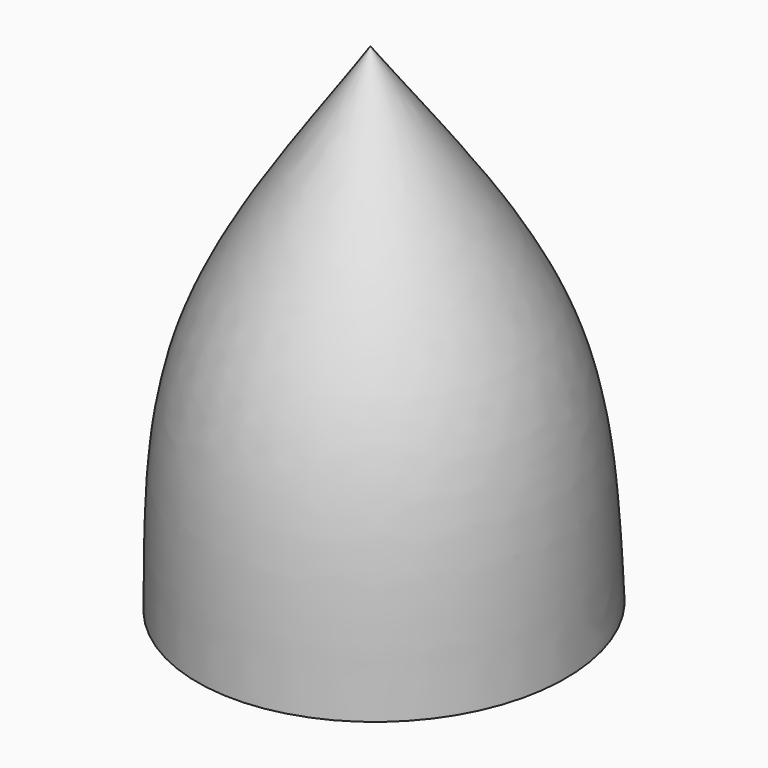
from build123d import *


with BuildPart() as f1:
    # F0 (on Right) → F1 (revolve)
    with BuildSketch(Plane.YZ):
        with BuildLine():
            add(Edge.make_bspline(
                [(28.6692344072, 2.0269317444), (31.5935294716, -1.9281548029), (37.7200663179, -9.0886155875), (37.9221523506, -17.1058912579), (38.175430183, -20.8197547563)],
                knots=[0, 0, 0, 0, 0.5282898293, 1, 1, 1, 1], degree=3))
            Line((28.6692344072, 2.0269317444), (29.4493087223, -20.8197547563))
            Line((29.4493087223, -20.8197547563), (38.175430183, -20.8197547563))
        make_face()
    revolve(axis=Axis((0, 29.0592715648, -9.396411506), (0, 0.0341239858, -0.9994176072)))


solid = f1.part
